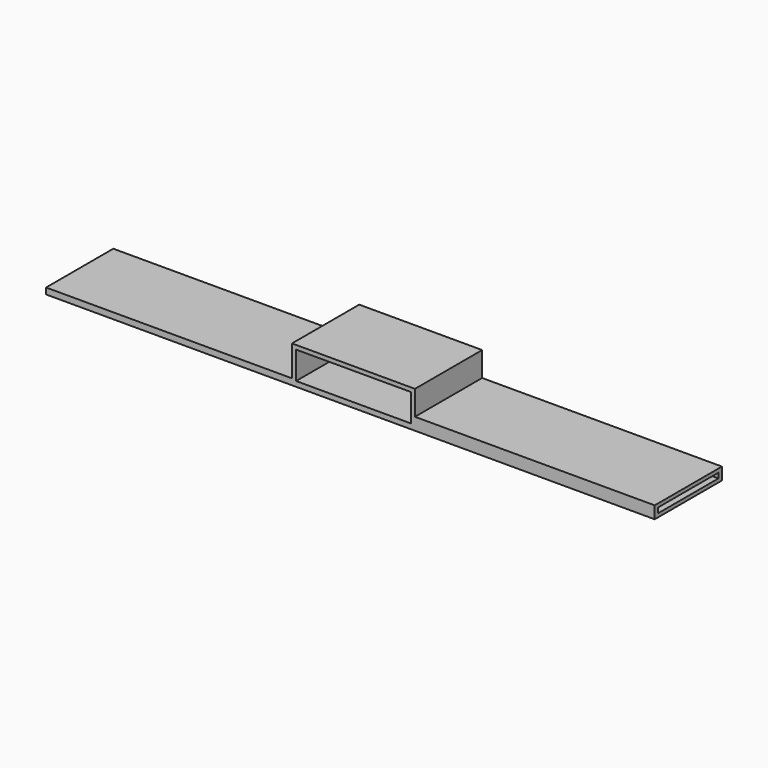
from build123d import *

# Parameters (mm, degrees)
SKETCH032_AS_DRAWN_W                      = 36.96
SKETCH032_AS_DRAWN_H                      = 13
EXTRUDE030_DEPTH                          = 2
EXTRUDE030_ONTO_SKETCH032_ROLL_ANGLE      = -0.051214
EXTRUDE030_ONTO_SKETCH032_PITCH_ANGLE     = -0.005439
EXTRUDE030_ONTO_SKETCH032_PLACEMENT_ANGLE = 89.992627
SKETCH031_W                               = 37
SKETCH031_H                               = 2.5
EXTRUDE029_DEPTH                          = 120
SKETCH030_W                               = 56
SKETCH030_H                               = 13.5
EXTRUDE028_DEPTH                          = 41


with BuildPart() as sensorcuts:
    # Sketch032 as drawn → Extrude030 (new)
    with BuildSketch(Plane.XY):
        with Locations((-0.07, -91)):
            Rectangle(SKETCH032_AS_DRAWN_W, SKETCH032_AS_DRAWN_H)
    extrude(amount=EXTRUDE030_DEPTH)


with BuildPart() as sensorcuts_1:
    # Extrude030 onto Sketch032 roll: moved
    add(sensorcuts.part.rotate(Axis((0, 0, 0), (1, 0, 0)), EXTRUDE030_ONTO_SKETCH032_ROLL_ANGLE))


with BuildPart() as sensorcuts_2:
    # Extrude030 onto Sketch032 pitch: moved
    add(sensorcuts_1.part.rotate(Axis((0, 0, 0), (0, 1, 0)), EXTRUDE030_ONTO_SKETCH032_PITCH_ANGLE))


with BuildPart() as sensorcuts_3:
    # Extrude030 onto Sketch032 placement: moved
    add(sensorcuts_2.part.moved(Location((60.323514, 26.485707, 1.233372))).rotate(Axis((60.323514, 26.485707, 1.233372), (0, 0, 1)), EXTRUDE030_ONTO_SKETCH032_PLACEMENT_ANGLE))


with BuildPart() as sensorcuts_4:
    # Extrude030 placement: moved
    add(sensorcuts_3.part.moved(Location((0, 0, -4))))


with BuildPart() as extrude029:
    # Sketch031 → Extrude029 (new body)
    with BuildSketch(Plane.YZ.offset(56)):
        with Locations((26.412533, 0.5)):
            Rectangle(SKETCH031_W, SKETCH031_H)
    extrude(amount=EXTRUDE029_DEPTH)


with BuildPart() as band002:
    # Sketch030 → Extrude028 (new body)
    with BuildSketch(Plane.XZ.offset(-6)):
        Polygon((175, 3.5), (58, 3.5), (58, 15.5), (-2, 15.5), (-2, 0.5), (-122, 0.5), (-122, -2.5), (175, -2.5), align=None)
        with Locations((28, 6.75)):
            Rectangle(SKETCH030_W, SKETCH030_H, mode=Mode.SUBTRACT)
    extrude(amount=-EXTRUDE028_DEPTH)

    # Cut002: cut Extrude029
    add(extrude029.part, mode=Mode.SUBTRACT)

    # Cut003: cut sensorCuts
    add(sensorcuts_4.part, mode=Mode.SUBTRACT)


solid = band002.part
